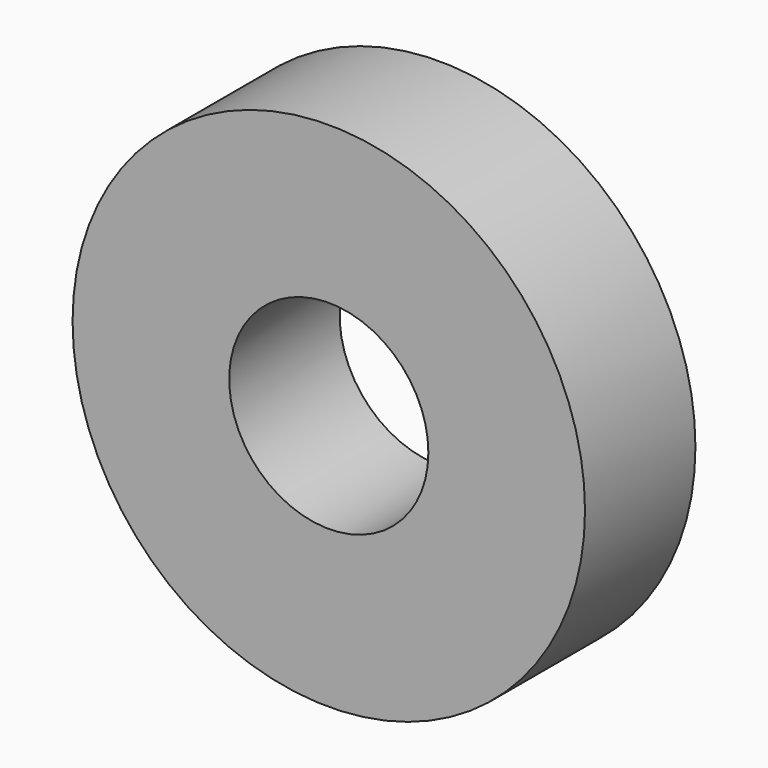
from build123d import *

# Parameters (mm, degrees)
F0_R     = 74.956114
F1_DEPTH = 25.4
F2_R     = 47.147248
F3_DEPTH = 25.4
F5_R     = 18.322867
F4_DEPTH = 73.656926


with BuildPart() as f1:
    # F0 (on Front) → F1 (new body)
    with BuildSketch(Plane.XZ):
        Circle(F0_R)
    extrude(amount=F1_DEPTH)

    # F2 (on face) → F3 (intersect)
    with BuildSketch(Plane.XZ.offset(25.4)):
        Circle(F2_R)
    extrude(amount=-F3_DEPTH, mode=Mode.INTERSECT)

    # F5 (on face) → F4 (cut)
    with BuildSketch(Plane.XZ.offset(25.4)):
        Circle(F5_R)
    extrude(amount=-F4_DEPTH, mode=Mode.SUBTRACT)


solid = f1.part
